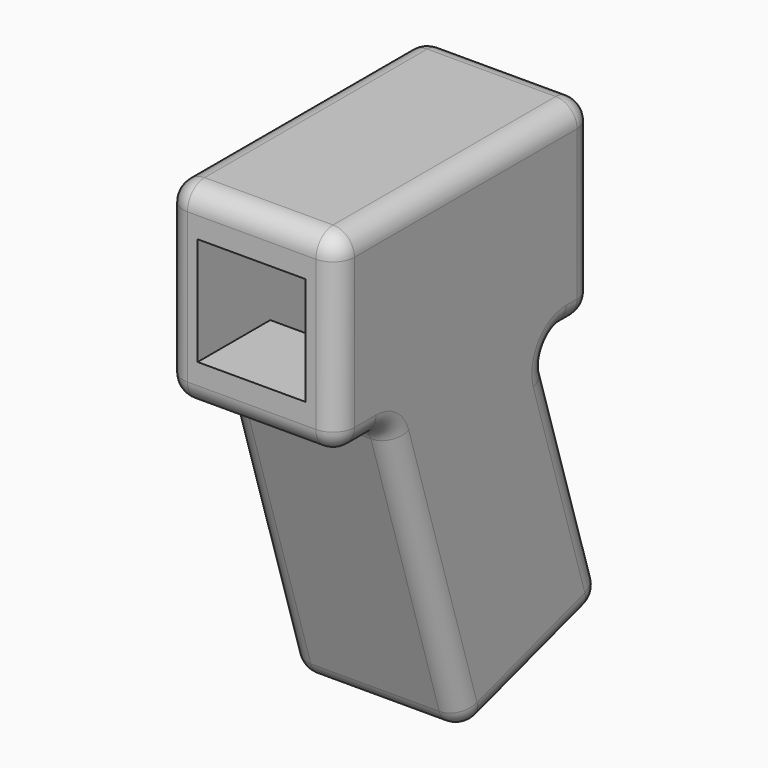
from build123d import *

# Parameters (mm, degrees)
F1_DEPTH = 8
F2_W     = 10.1
F2_H     = 10.1
F3_DEPTH = 30
F4_W     = 10.1
F4_H     = 10.1
F5_DEPTH = 33.3550908792
F6_R     = 2


with BuildPart() as f1:
    # F0 (on Right) → F1 (new body, symmetric)
    with BuildSketch(Plane.YZ):
        Polygon((9, -9), (15, -9), (15, 9), (-15, 9), (-15, -9), (-9, -9), (0, -37.9528366029), (16.4139532903, -32.8505531328), align=None)
    extrude(amount=F1_DEPTH, both=True)

    # F2 (on face) → F3 (cut, through all)
    with BuildSketch(Plane(origin=(0, 15, 0), x_dir=(-1, 0, 0), z_dir=(0, 1, 0))):
        Rectangle(F2_W, F2_H)
    extrude(amount=-F3_DEPTH, mode=Mode.SUBTRACT)

    # F4 (on face) → F5 (cut, through all)
    with BuildSketch(Plane(origin=(0, 10.7581183802, -34.608671513), x_dir=(1, 0, 0), z_dir=(0, 0.2968395292, -0.9549273762))):
        with Locations((0, 2.6715557628)):
            Rectangle(F4_W, F4_H)
    extrude(amount=-F5_DEPTH, mode=Mode.SUBTRACT)

    # F6
    f6_edges = [f1.edges().sort_by_distance(p)[0] for p in [
        (0, 15, 9),
        (-8, 0, 9),
        (0, -15, 9),
        (8, 0, 9),
        (-8, 8.206977, -35.401695),
        (-8, 12.706977, -20.925277),
        (-8, 12, -9),
        (-8, 15, 0),
        (-8, -15, 0),
        (-8, -12, -9),
        (-8, -4.5, -23.476418),
        (0, 0, -37.952837),
        (8, -4.5, -23.476418),
        (0, -9, -9),
        (8, 8.206977, -35.401695),
        (8, 12.706977, -20.925277),
        (8, 12, -9),
        (8, 15, 0),
        (8, -15, 0),
        (8, -12, -9),
        (0, 16.413953, -32.850553),
        (0, 9, -9),
        (0, 15, -9),
        (0, -15, -9),
    ]]
    fillet(f6_edges, radius=F6_R)


solid = f1.part
